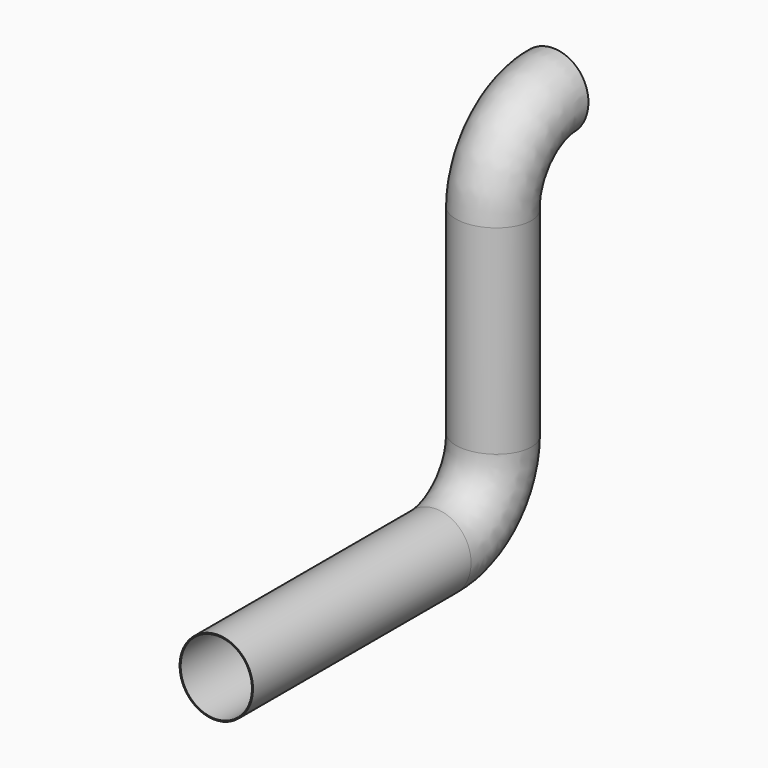
from build123d import *

# Parameters (mm, degrees)
F0_R   = 1346.2
F0_R_2 = 1308.1


with BuildPart() as f2:
    # F2: sweep along a path in F1
    with BuildLine(Plane.YZ) as f2_path:
        ThreePointArc((152.4, 0), (-1751.4142976667, -788.5857023333), (-2540, -2692.4))
        Line((-2540, -2692.4), (-2540, -10007.6))
        ThreePointArc((-2540, -10007.6), (-3328.5857023333, -11911.4142976667), (-5232.4, -12700))
        Line((-5232.4, -12700), (-15240, -12700))
    # F0 (on Front) → F2 (sweep)
    with BuildSketch(Plane.XZ):
        Circle(F0_R)
        Circle(F0_R_2, mode=Mode.SUBTRACT)
    sweep(path=f2_path.line)


solid = f2.part
